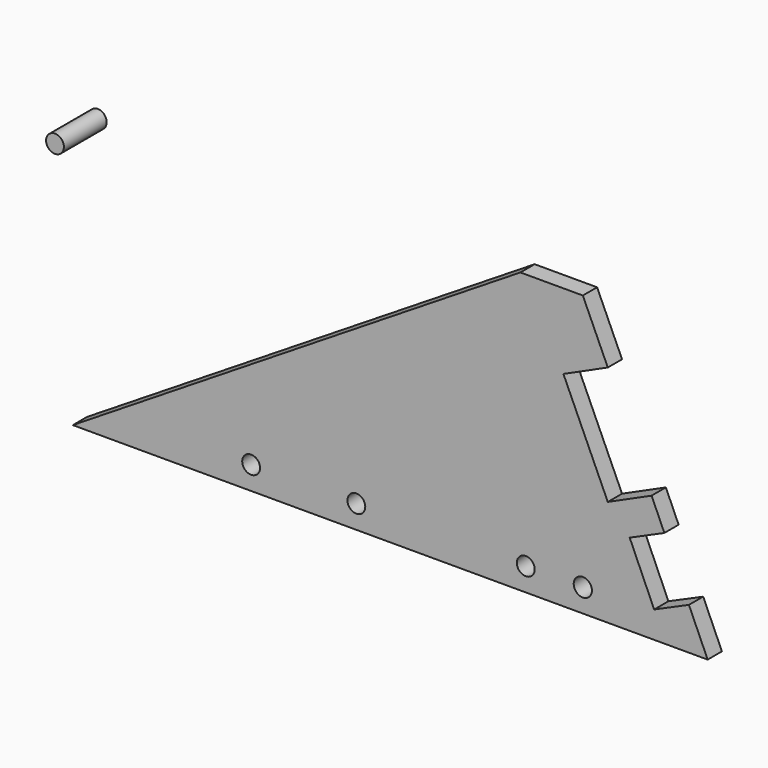
from build123d import *

# Parameters (mm, degrees)
F1_DEPTH  = 2.54
F3_DEPTH  = 25.4
F5_DEPTH  = 25.4
F6_R      = 1.6280471638
F7_DEPTH  = 5.08
F6_R_2    = 1.6056038369
F6_R_3    = 1.7780047962
F6_R_4    = 1.7956781563
F6_R_5    = 1.9333651296
F6_R_6    = 1.795676312
F10_R     = 1.2951508641
F10_R_2   = 1.2951526906
F11_DEPTH = 12.7
F12_R     = 1.2700002175
F12_R_2   = 1.2700017542
F12_R_3   = 1.2951526906
F13_DEPTH = 2.54
F14_R     = 1.2700021267
F15_DEPTH = 7.62


with BuildPart() as f1:
    # F0 (on Front) → F1 (new body)
    with BuildSketch(Plane.XZ):
        Polygon((7.8740008175, 39.8753546178), (-55.8800026774, 0), (34.5439985394, 0), (20.320000127, 32.0013538003), (16.7639981955, 39.8753546178), align=None)
    extrude(amount=F1_DEPTH)

    # F2 (on face) → F3 (cut)
    with BuildSketch(Plane.XZ.offset(2.54)):
        Polygon((26.5591864506, 17.964343729), (20.320000127, 32.0013538003), (13.9976617065, 29.1461029367), (20.320000127, 15.1466454417), align=None)
    extrude(amount=-F3_DEPTH, mode=Mode.SUBTRACT)

    # F4 (on face) → F5 (cut)
    with BuildSketch(Plane.XZ.offset(2.54)):
        Polygon((28.3765034583, 13.8757180948), (23.4395932888, 11.6813546047), (26.9239991903, 3.8073547184), (31.8774057447, 5.999338371), align=None)
    extrude(amount=-F5_DEPTH, mode=Mode.SUBTRACT)

    # F10 (on face) → F11 (cut)
    with BuildSketch(Plane(origin=(0, 0, 0), x_dir=(1, 0, 0), z_dir=(0, 0, -1))):
        with Locations((-31.7500010133, 4.0613547899)):
            Circle(F10_R)
        with Locations((-17.5260007381, 4.3153548613)):
            Circle(F10_R_2)
        with Locations((-4.8260008916, 4.3153548613)):
            Circle(F10_R_2)
        with Locations((8.890000172, 4.0613547899)):
            Circle(F10_R_2)
    extrude(amount=-F11_DEPTH, mode=Mode.SUBTRACT)

    # F12 (on face) → F13 (cut)
    with BuildSketch(Plane.XZ.offset(2.54)):
        with Locations((-30.4800011218, 3.2993548084)):
            Circle(F12_R)
        with Locations((-15.494001098, 3.2993548084)):
            Circle(F12_R_2)
        with Locations((8.6359987035, 3.2993548084)):
            Circle(F12_R_2)
        with Locations((16.7640019208, 3.2993548084)):
            Circle(F12_R_3)
    extrude(amount=-F13_DEPTH, mode=Mode.SUBTRACT)


with BuildPart() as f7:
    # F6 (on face) → F7 (new body, symmetric)
    with BuildSketch(Plane(origin=(0, 0, 0), x_dir=(1, 0, 0), z_dir=(0, 0, -1))):
        with Locations((-50.7999993861, 1.27)):
            Circle(F6_R)
    extrude(amount=F7_DEPTH, both=True)


with BuildPart() as f7b:
    # F6 (on face) → F7, piece 2 (new body, symmetric)
    with BuildSketch(Plane(origin=(0, 0, 0), x_dir=(1, 0, 0), z_dir=(0, 0, -1))):
        with Locations((-36.8300005794, 1.27)):
            Circle(F6_R_2)
    extrude(amount=F7_DEPTH, both=True)


with BuildPart() as f7c:
    # F6 (on face) → F7, piece 3 (new body, symmetric)
    with BuildSketch(Plane(origin=(0, 0, 0), x_dir=(1, 0, 0), z_dir=(0, 0, -1))):
        with Locations((-21.8440014869, 1.27)):
            Circle(F6_R_3)
    extrude(amount=F7_DEPTH, both=True)


with BuildPart() as f7d:
    # F6 (on face) → F7, piece 4 (new body, symmetric)
    with BuildSketch(Plane(origin=(0, 0, 0), x_dir=(1, 0, 0), z_dir=(0, 0, -1))):
        with Locations((-5.3339982405, 1.27)):
            Circle(F6_R_4)
    extrude(amount=F7_DEPTH, both=True)


with BuildPart() as f7e:
    # F6 (on face) → F7, piece 5 (new body, symmetric)
    with BuildSketch(Plane(origin=(0, 0, 0), x_dir=(1, 0, 0), z_dir=(0, 0, -1))):
        with Locations((9.1440016404, 1.27)):
            Circle(F6_R_5)
    extrude(amount=F7_DEPTH, both=True)


with BuildPart() as f7f:
    # F6 (on face) → F7, piece 6 (new body, symmetric)
    with BuildSketch(Plane(origin=(0, 0, 0), x_dir=(1, 0, 0), z_dir=(0, 0, -1))):
        with Locations((23.1139995158, 1.27)):
            Circle(F6_R_6)
    extrude(amount=F7_DEPTH, both=True)


with BuildPart() as f15:
    # F14 (on Front) → F15 (new body)
    with BuildSketch(Plane.XZ):
        with Locations((-54.3560013175, 37.8433577716)):
            Circle(F14_R)
    extrude(amount=F15_DEPTH)


solid = Compound([f1.part, f15.part])
